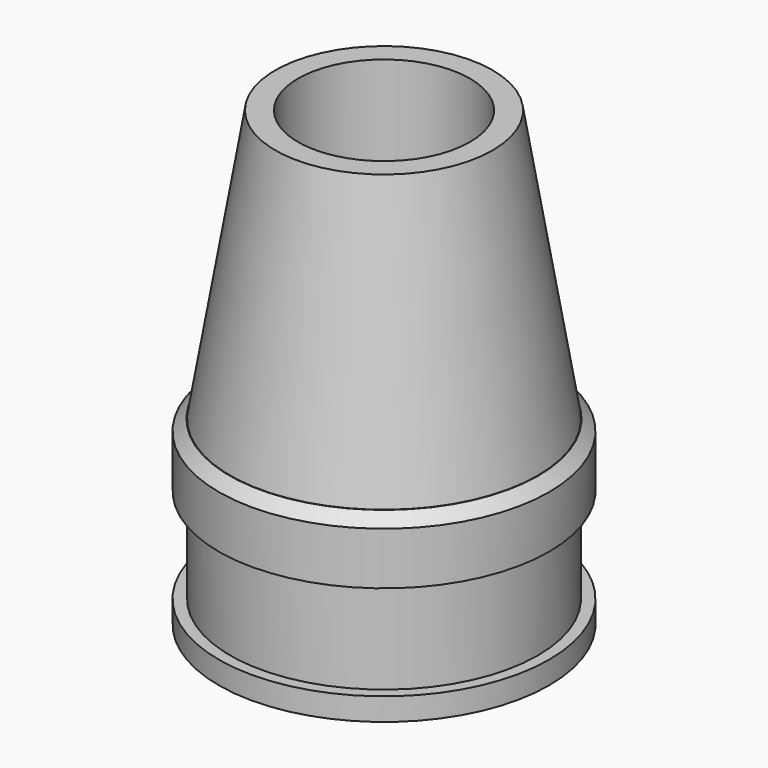
from build123d import *

# Parameters (mm, degrees)
SKETCH_R        = 3.4
SKETCH_R_2      = 1.9
PAD_DEPTH       = 10
CHAMFER_SIZE2   = 1
CHAMFER_SIZE    = 6
PAD001_START    = -2.6
SKETCH001_R     = 3.65
SKETCH001_R_2   = 3.4
PAD001_DEPTH    = 1.4
SKETCH002_R     = 3.65
SKETCH002_R_2   = 3.4
PAD002_DEPTH    = 0.5
CHAMFER001_SIZE = 0.24


with BuildPart() as part:
    # Sketch → Pad (new body)
    with BuildSketch(Plane.XY):
        Circle(SKETCH_R)
        Circle(SKETCH_R_2, mode=Mode.SUBTRACT)
    extrude(amount=PAD_DEPTH)

    # Chamfer
    chamfer_edges = [part.edges().sort_by_distance(p)[0] for p in [
        (-3.4, 0, 10),
    ]]
    chamfer_side = part.faces().sort_by_distance((-3.4, 0, 5))[0]
    chamfer(chamfer_edges, length=CHAMFER_SIZE, length2=CHAMFER_SIZE2, reference=chamfer_side)

    # Sketch001 (on Face3 of Chamfer) → Pad001 (join)
    with BuildSketch(Plane(origin=(0, 0, 0), x_dir=(1, 0, 0), z_dir=(0, 0, -1)).offset(PAD001_START)):
        Circle(SKETCH001_R)
        Circle(SKETCH001_R_2, mode=Mode.SUBTRACT)
    extrude(amount=-PAD001_DEPTH)

    # Sketch002 (on Face2 of Pad001) → Pad002 (join)
    with BuildSketch(Plane(origin=(0, 0, 0), x_dir=(1, 0, 0), z_dir=(0, 0, -1))):
        Circle(SKETCH002_R)
        Circle(SKETCH002_R_2, mode=Mode.SUBTRACT)
    extrude(amount=-PAD002_DEPTH)

    # Chamfer001
    chamfer001_edges = [part.edges().sort_by_distance(p)[0] for p in [
        (-3.65, 0, 4),
    ]]
    chamfer(chamfer001_edges, length=CHAMFER001_SIZE)


solid = part.part
